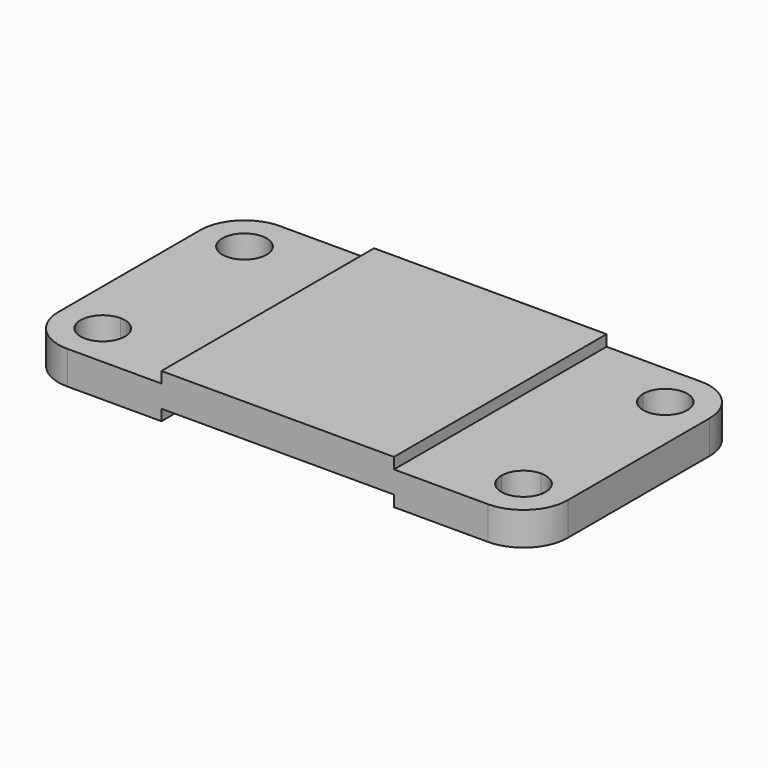
from build123d import *

# Parameters (mm, degrees)
F0_W     = 146.05
F0_H     = 76.2
F1_DEPTH = 9.525
F2_R     = 12.7
F3_W     = 66.675
F3_H     = 76.2
F4_DEPTH = 3.175
F5_W     = 66.675
F5_H     = 12.7
F5_H_2   = 50.8
F6_DEPTH = 3.175


with BuildPart() as f1:
    # F0 (on Top) → F1 (new body)
    with BuildSketch(Plane.XY):
        Rectangle(F0_W, F0_H)
        with BuildLine():
            ThreePointArc((-60.325, 19.05), (-64.8151280605, 29.8901280605), (-53.975, 25.4))
            Line((-53.975, 25.4), (53.975, 25.4))
            ThreePointArc((53.975, 25.4), (60.325, 31.75), (66.675, 25.4))
            ThreePointArc((66.675, 25.4), (64.8151280605, 20.9098719395), (60.325, 19.05))
            Line((60.325, 19.05), (60.325, -19.05))
            ThreePointArc((60.325, -19.05), (64.8151280605, -20.9098719395), (66.675, -25.4))
            ThreePointArc((66.675, -25.4), (60.325, -31.75), (53.975, -25.4))
            Line((53.975, -25.4), (-53.975, -25.4))
            ThreePointArc((-53.975, -25.4), (-64.8151280605, -29.8901280605), (-60.325, -19.05))
            Line((-60.325, -19.05), (-60.325, 19.05))
        make_face(mode=Mode.SUBTRACT)
        with BuildLine():
            Line((53.975, 25.4), (-53.975, 25.4))
            ThreePointArc((-53.975, 25.4), (-55.8348719395, 20.9098719395), (-60.325, 19.05))
            Line((-60.325, 19.05), (-60.325, -19.05))
            ThreePointArc((-60.325, -19.05), (-55.8348719395, -20.9098719395), (-53.975, -25.4))
            Line((-53.975, -25.4), (53.975, -25.4))
            ThreePointArc((53.975, -25.4), (55.8348719395, -20.9098719395), (60.325, -19.05))
            Line((60.325, -19.05), (60.325, 19.05))
            ThreePointArc((60.325, 19.05), (55.8348719395, 20.9098719395), (53.975, 25.4))
        make_face()
    extrude(amount=F1_DEPTH)

    # F2
    f2_edges = [f1.edges().sort_by_distance(p)[0] for p in [
        (-73.025, -38.1, 4.7625),
        (-73.025, 38.1, 4.7625),
        (73.025, 38.1, 4.7625),
        (73.025, -38.1, 4.7625),
    ]]
    fillet(f2_edges, radius=F2_R)

    # F3 (on face) → F4 (join)
    with BuildSketch(Plane.XY.offset(9.525)):
        Rectangle(F3_W, F3_H)
    extrude(amount=F4_DEPTH)

    # F5 (on face) → F6 (cut)
    with BuildSketch(Plane.XY):
        with Locations((0, 31.75)):
            Rectangle(F5_W, F5_H)
        Rectangle(F5_W, F5_H_2)
        with Locations((0, -31.75)):
            Rectangle(F5_W, F5_H)
    extrude(amount=F6_DEPTH, mode=Mode.SUBTRACT)


solid = f1.part
